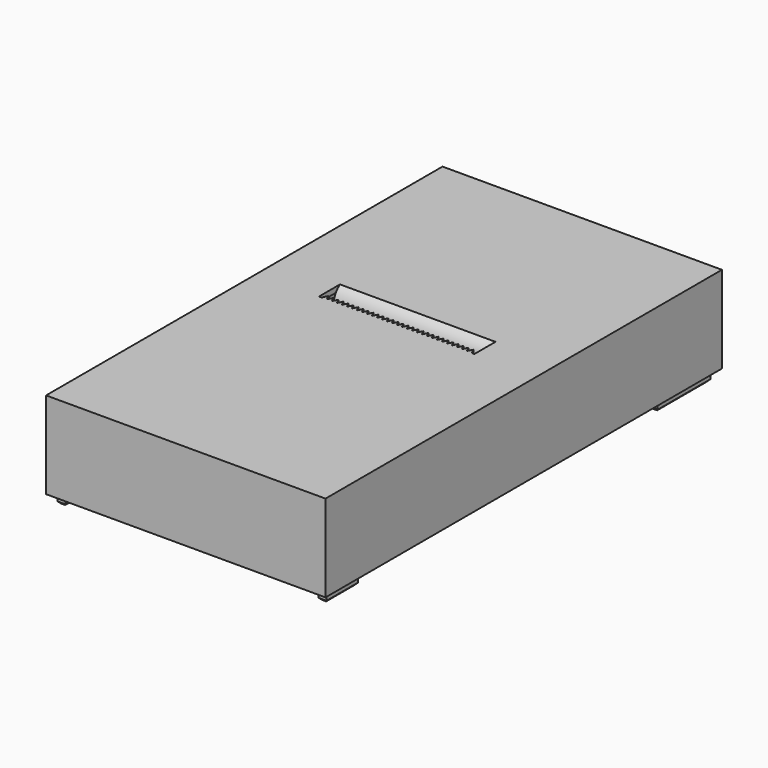
from build123d import *

# Parameters (mm, degrees)
SKETCH016_W         = 106
SKETCH016_H         = 188
SKETCH016_W_2       = 96
SKETCH016_H_2       = 182
PAD010_DEPTH        = 31
SKETCH017_W         = 3
SKETCH017_H         = 15
SKETCH017_H_2       = 25
PAD011_DEPTH        = 3.8
SKETCH018_W         = 3.2
SKETCH018_H         = 15
POCKET006_DEPTH     = 17.5
SKETCH019_W         = 106
SKETCH019_H         = 188
SKETCH019_W_2       = 59
SKETCH019_H_2       = 10
PAD012_DEPTH        = 2
CHAMFER001_SIZE     = 0.8
CHAMFER002_SIZE     = 1.2
PAD013_DEPTH        = 2
LINEARPATTERN_COUNT = 30
LINEARPATTERN_PITCH = 1.896552
PAD014_DEPTH        = 59
FILLET_R            = 1.5


with BuildPart() as part:
    # Sketch016 → Pad010 (new body)
    with BuildSketch(Plane.XY):
        with Locations((53, 94)):
            Rectangle(SKETCH016_W, SKETCH016_H)
        with Locations((53, 94)):
            Rectangle(SKETCH016_W_2, SKETCH016_H_2, mode=Mode.SUBTRACT)
    extrude(amount=PAD010_DEPTH)

    # Sketch017 (on Face9 of Pad010) → Pad011 (join)
    with BuildSketch(Plane(origin=(0, 0, 0), x_dir=(1, 0, 0), z_dir=(0, 0, -1))):
        with Locations((3.5, -10.5)):
            Rectangle(SKETCH017_W, SKETCH017_H)
        with Locations((3.5, -172.5)):
            Rectangle(SKETCH017_W, SKETCH017_H_2)
        with Locations((102.5, -172.5)):
            Rectangle(SKETCH017_W, SKETCH017_H_2)
        with Locations((102.5, -10.5)):
            Rectangle(SKETCH017_W, SKETCH017_H)
    extrude(amount=PAD011_DEPTH)

    # Sketch018 (on Face4 of Pad011) → Pocket006 (cut)
    with BuildSketch(Plane(origin=(0, 0, 0), x_dir=(1, 0, 0), z_dir=(0, 0, -1))):
        with Locations((3.4, -48.5)):
            Rectangle(SKETCH018_W, SKETCH018_H)
        with Locations((102.6, -48.5)):
            Rectangle(SKETCH018_W, SKETCH018_H)
    extrude(amount=-POCKET006_DEPTH, mode=Mode.SUBTRACT)

    # Sketch019 (on Face5 of Pocket006) → Pad012 (join)
    with BuildSketch(Plane.XY.offset(31)):
        with Locations((53, 94)):
            Rectangle(SKETCH019_W, SKETCH019_H)
        with Locations((53, 105)):
            Rectangle(SKETCH019_W_2, SKETCH019_H_2, mode=Mode.SUBTRACT)
    extrude(amount=PAD012_DEPTH)

    # Chamfer001
    chamfer001_edges = [part.edges().sort_by_distance(p)[0] for p in [
        (101, 10.5, -3.8),
        (102.5, 18, -3.8),
        (104, 10.5, -3.8),
        (102.5, 3, -3.8),
        (102.5, 185, -3.8),
        (104, 172.5, -3.8),
        (102.5, 160, -3.8),
        (101, 172.5, -3.8),
        (5, 172.5, -3.8),
        (3.5, 3, -3.8),
        (2, 10.5, -3.8),
        (3.5, 18, -3.8),
        (5, 10.5, -3.8),
    ]]
    chamfer(chamfer001_edges, length=CHAMFER001_SIZE)

    # Chamfer002
    chamfer002_edges = [part.edges().sort_by_distance(p)[0] for p in [
        (102.6, 56, 0),
        (102.6, 41, 0),
        (3.4, 41, 0),
        (3.4, 56, 0),
    ]]
    chamfer(chamfer002_edges, length=CHAMFER002_SIZE)

    # Sketch020 (on Face12 of Chamfer002) → Pad013 (join)
    with BuildSketch(Plane(origin=(0, 0, 31), x_dir=(1, 0, 0), z_dir=(0, 0, -1))):
        Polygon((81.5, -100), (80.5, -102), (79.5, -100), align=None)
    pad013 = extrude(amount=-PAD013_DEPTH)

    # LinearPattern: Pad013 ×30
    with Locations(*[(-i * LINEARPATTERN_PITCH, 0, 0) for i in range(1, LINEARPATTERN_COUNT)]):
        add(pad013)

    # Sketch021 (on Face112 of LinearPattern) → Pad014 (join)
    with BuildSketch(Plane.YZ.offset(23.5)):
        with BuildLine():
            ThreePointArc((110, 33), (107.798766, 30.632491), (107, 27.5))
            Line((107, 27.5), (115, 27.5))
            Line((115, 27.5), (115, 31))
            Line((110, 31), (115, 31))
            Line((110, 33), (110, 31))
        make_face()
    extrude(amount=PAD014_DEPTH)

    # Fillet
    fillet_edges = [part.edges().sort_by_distance(p)[0] for p in [
        (53, 115, 31),
        (53, 115, 27.5),
    ]]
    fillet(fillet_edges, radius=FILLET_R)


with BuildPart() as part_1:
    # Body003 placement: moved
    add(part.part.moved(Location((0, 0, 40))))


solid = part_1.part
